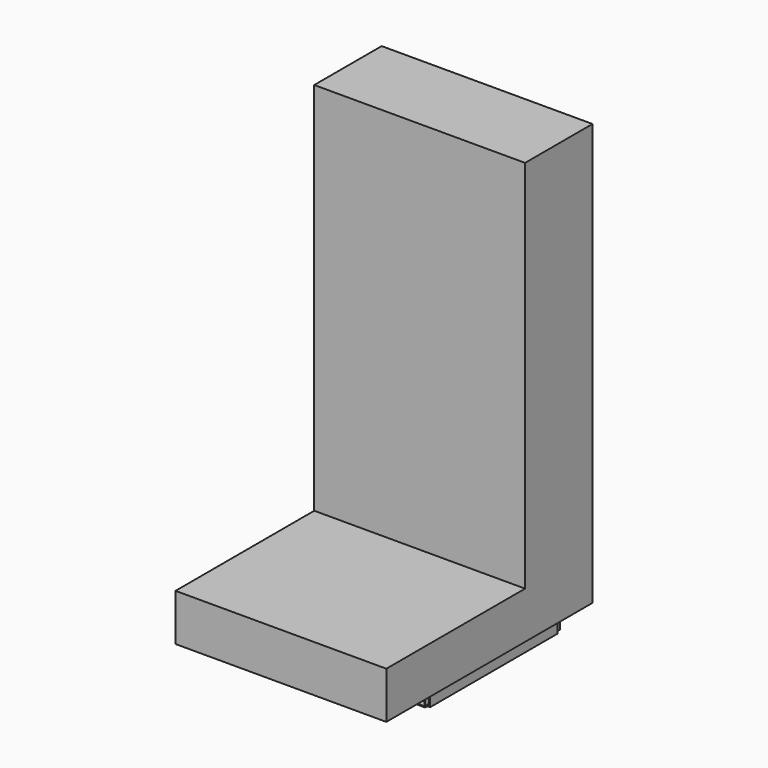
from build123d import *

# Parameters (mm, degrees)
F0_W     = 179.872523
F0_H     = 800
F1_DEPTH = 450
F2_W     = 365
F2_H     = 24.940014
F3_DEPTH = 22
F4_W     = 26
F4_H     = 2
F5_DEPTH = 372
F6_W     = 19
F6_H     = 360
F6_R     = 4
F7_DEPTH = 24
F8_W     = 15
F8_H     = 22
F9_DEPTH = 420


with BuildPart() as f1:
    # F0 (on Right) → F1 (new body)
    with BuildSketch(Plane.YZ):
        Polygon((-550, 0), (0, 0), (0, 100), (-179.872523, 100), (-550, 100), align=None)
        with Locations((-89.936262, 500)):
            Rectangle(F0_W, F0_H)
    extrude(amount=F1_DEPTH)


with BuildPart() as f3:
    # F2 (on face) → F3 (new body)
    with BuildSketch(Plane(origin=(0, 0, 0), x_dir=(1, 0, 0), z_dir=(0, 0, -1))):
        Polygon((42.5, 430), (2.5, 430), (2.5, 90), (42.5, 90), (42.5, 372.844845), (42.5, 397.784859), align=None)
        with Locations((225, 385.314852)):
            Rectangle(F2_W, F2_H)
        Polygon((407.5, 430), (407.5, 397.784859), (407.5, 372.844845), (407.5, 90), (447.5, 90), (447.5, 430), align=None)
    extrude(amount=F3_DEPTH)

    # F4 (on face) → F5 (cut)
    with BuildSketch(Plane.XZ.offset(430)):
        Polygon((40.5, -2), (4.5, -2), (4.5, -20), (9.5, -20), (35.5, -20), (40.5, -20), align=None)
        with Locations((22.5, -21)):
            Rectangle(F4_W, F4_H)
        with Locations((427.5, -21)):
            Rectangle(F4_W, F4_H)
        Polygon((409.5, -20), (414.5, -20), (440.5, -20), (445.5, -20), (445.5, -2), (409.5, -2), align=None)
    extrude(amount=-F5_DEPTH, mode=Mode.SUBTRACT)

    # F6 (on face) → F7 (join)
    with BuildSketch(Plane(origin=(0, 0, -2), x_dir=(1, 0, 0), z_dir=(0, 0, -1))):
        with Locations((22.5, 250)):
            Rectangle(F6_W, F6_H)
        with Locations((22.5, 92)):
            Circle(F6_R, mode=Mode.SUBTRACT)
        with BuildLine():
            Line((18, 410.320551), (18, 415.679449))
            ThreePointArc((18, 415.679449), (22.5, 418.5), (27, 415.679449))
            Line((27, 415.679449), (27, 410.320551))
            ThreePointArc((27, 410.320551), (22.5, 407.5), (18, 410.320551))
        make_face(mode=Mode.SUBTRACT)
        with Locations((427.5, 250)):
            Rectangle(F6_W, F6_H)
        with Locations((427.5, 92)):
            Circle(F6_R, mode=Mode.SUBTRACT)
        with BuildLine():
            ThreePointArc((423, 415.679449), (427.5, 418.5), (432, 415.679449))
            Line((432, 415.679449), (432, 410.320551))
            ThreePointArc((432, 410.320551), (427.5, 407.5), (423, 410.320551))
            Line((423, 410.320551), (423, 415.679449))
        make_face(mode=Mode.SUBTRACT)
    extrude(amount=F7_DEPTH)

    # F8 (on face) → F9 (cut)
    with BuildSketch(Plane.XZ.offset(430)):
        with Locations((22.5, -13)):
            Rectangle(F8_W, F8_H)
        with Locations((427.5, -13)):
            Rectangle(F8_W, F8_H)
    extrude(amount=-F9_DEPTH, mode=Mode.SUBTRACT)


solid = Compound([f1.part, f3.part])
